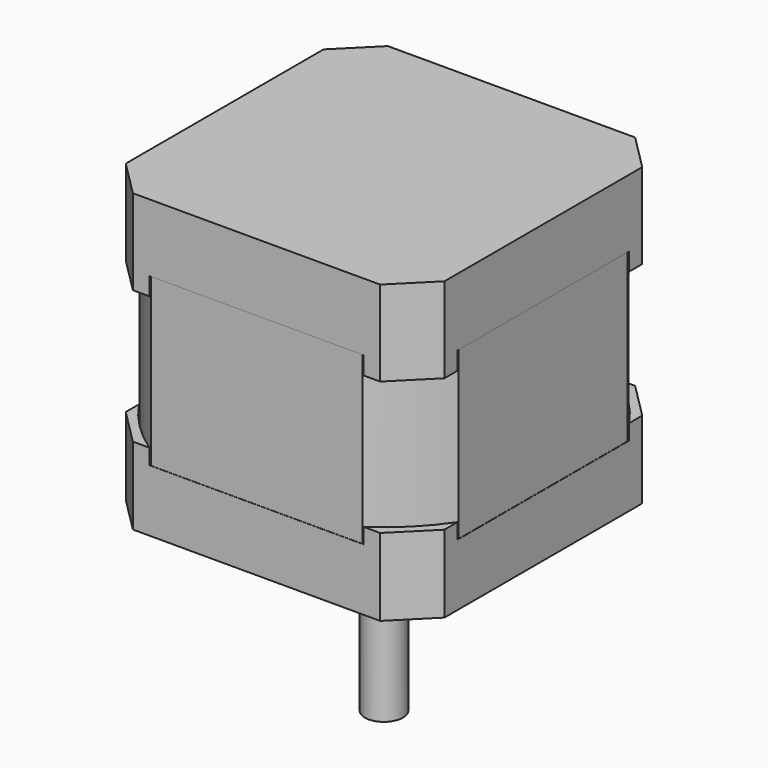
from build123d import *

# Parameters (mm, degrees)
F1_DEPTH      = 11.23
F4_DEPTH      = 10.18
F6_DEPTH      = 2.36
F6_DEPTH_BACK = 19.56
F9_DEPTH      = 21.92
F10_R         = 16.25
F11_DEPTH     = 0.5
F12_R         = 11
F12_R_2       = 3.6
F13_DEPTH     = 2.5
F14_R         = 2.5
F15_DEPTH     = 24.7
F16_R         = 1.5
F17_DEPTH     = 4.5


with BuildPart() as f1:
    # F0 (on Top) → F1 (new body)
    with BuildSketch(Plane.XY):
        Polygon((-16.2600298938, 20.955), (-20.955, 16.2600298938), (-20.955, -16.2600298938), (-16.2600298938, -20.955), (16.2600298938, -20.955), (20.955, -16.2600298938), (20.955, 16.2600298938), (16.2600298938, 20.955), align=None)
    extrude(amount=F1_DEPTH)


with BuildPart() as f4:
    # F3 (on offset) → F4 (new body)
    with BuildSketch(Plane(origin=(0, 0, -17.53), x_dir=(1, 0, 0), z_dir=(0, 0, -1))):
        Polygon((-16.2600298938, 20.955), (-20.955, 16.2600298938), (-20.955, -16.2600298938), (-16.2600298938, -20.955), (16.2600298938, -20.955), (20.955, -16.2600298938), (20.955, 16.2600298938), (16.2600298938, 20.955), align=None)
    extrude(amount=F4_DEPTH)


with BuildPart() as f6_tool:
    # F5 (on face) → F6 (new body, two sides)
    with BuildSketch(Plane(origin=(0, 0, 0), x_dir=(1, 0, 0), z_dir=(0, 0, -1))) as f6_sk:
        with BuildLine():
            Line((20.955, -14.0872451175), (20.955, 14.0872451175))
            ThreePointArc((20.955, 14.0872451175), (17.854446225, 17.854446225), (14.0872451175, 20.955))
            Line((14.0872451175, 20.955), (-14.0872451175, 20.955))
            ThreePointArc((-14.0872451175, 20.955), (-17.854446225, 17.854446225), (-20.955, 14.0872451175))
            Line((-20.955, 14.0872451175), (-20.955, -14.0872451175))
            ThreePointArc((-20.955, -14.0872451175), (-17.854446225, -17.854446225), (-14.0872451175, -20.955))
            Line((-14.0872451175, -20.955), (14.0872451175, -20.955))
            ThreePointArc((14.0872451175, -20.955), (17.854446225, -17.854446225), (20.955, -14.0872451175))
        make_face()
    extrude(amount=-F6_DEPTH)
    extrude(f6_sk.sketch, amount=F6_DEPTH_BACK)


with BuildPart() as f1_1:
    add(f1.part)

    # F6: cut by f6_tool
    add(f6_tool.part, mode=Mode.SUBTRACT)



with BuildPart() as f4_1:
    add(f4.part)

    # F6: cut by f6_tool
    add(f6_tool.part, mode=Mode.SUBTRACT)


with BuildPart() as f1_2:
    add(f1_1.part)

    add(f4_1.part)  # F9 merges F4
    # F8 (on offset) → F9 (join)
    with BuildSketch(Plane.XY.offset(2.36)):
        with BuildLine():
            Line((13.8906263358, 20.93), (-13.8906263358, 20.93))
            ThreePointArc((-13.8906263358, 20.93), (-17.7625223434, 17.7625223434), (-20.93, 13.8906263358))
            Line((-20.93, 13.8906263358), (-20.93, -13.8906263358))
            ThreePointArc((-20.93, -13.8906263358), (-17.7625223434, -17.7625223434), (-13.8906263358, -20.93))
            Line((-13.8906263358, -20.93), (13.8906263358, -20.93))
            ThreePointArc((13.8906263358, -20.93), (17.7625223434, -17.7625223434), (20.93, -13.8906263358))
            Line((20.93, -13.8906263358), (20.93, 13.8906263358))
            ThreePointArc((20.93, 13.8906263358), (17.7625223434, 17.7625223434), (13.8906263358, 20.93))
        make_face()
    extrude(amount=-F9_DEPTH)

    # F10 (on face) → F11 (cut)
    with BuildSketch(Plane(origin=(0, 0, -27.71), x_dir=(1, 0, 0), z_dir=(0, 0, -1))):
        Circle(F10_R)
    extrude(amount=-F11_DEPTH, mode=Mode.SUBTRACT)

    # F12 (on face) → F13 (join)
    with BuildSketch(Plane(origin=(0, 0, -27.21), x_dir=(1, 0, 0), z_dir=(0, 0, -1))):
        Circle(F12_R)
        Circle(F12_R_2, mode=Mode.SUBTRACT)
    extrude(amount=F13_DEPTH)

    # F14 (on face) → F15 (join)
    with BuildSketch(Plane(origin=(0, 0, -27.21), x_dir=(1, 0, 0), z_dir=(0, 0, -1))):
        Circle(F14_R)
    extrude(amount=F15_DEPTH)

    # F16 (on face) → F17 (cut)
    with BuildSketch(Plane(origin=(0, 0, -27.71), x_dir=(1, 0, 0), z_dir=(0, 0, -1))):
        with Locations((15.430398907, -15.3814321037)):
            Circle(F16_R)
        with Locations((-15.568696448, -15.6182594076)):
            Circle(F16_R)
        with Locations((-15.430398907, 15.3814321037)):
            Circle(F16_R)
        with Locations((15.568696448, 15.6182594076)):
            Circle(F16_R)
    extrude(amount=-F17_DEPTH, mode=Mode.SUBTRACT)


solid = f1_2.part
